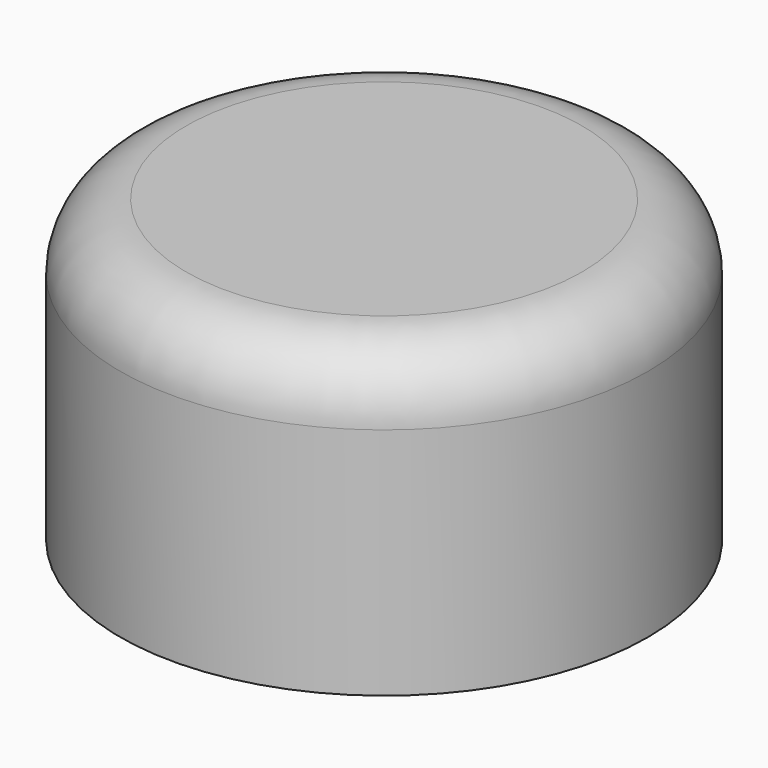
from build123d import *

# Parameters (mm, degrees)
F0_R     = 22
F1_DEPTH = 25
F2_R     = 5.5
F3_R     = 18.5
F4_DEPTH = 21
F5_R     = 1.5


with BuildPart() as f1:
    # F0 (on Top) → F1 (new body)
    with BuildSketch(Plane.XY):
        Circle(F0_R)
    extrude(amount=F1_DEPTH)

    # F2
    f2_edges = [f1.edges().sort_by_distance(p)[0] for p in [
        (-22, 0, 25),
    ]]
    fillet(f2_edges, radius=F2_R)

    # F3 (on Top) → F4 (cut)
    with BuildSketch(Plane.XY):
        Circle(F3_R)
    extrude(amount=F4_DEPTH, mode=Mode.SUBTRACT)

    # F5
    f5_edges = [f1.edges().sort_by_distance(p)[0] for p in [
        (-18.5, 0, 21),
    ]]
    fillet(f5_edges, radius=F5_R)


solid = f1.part
